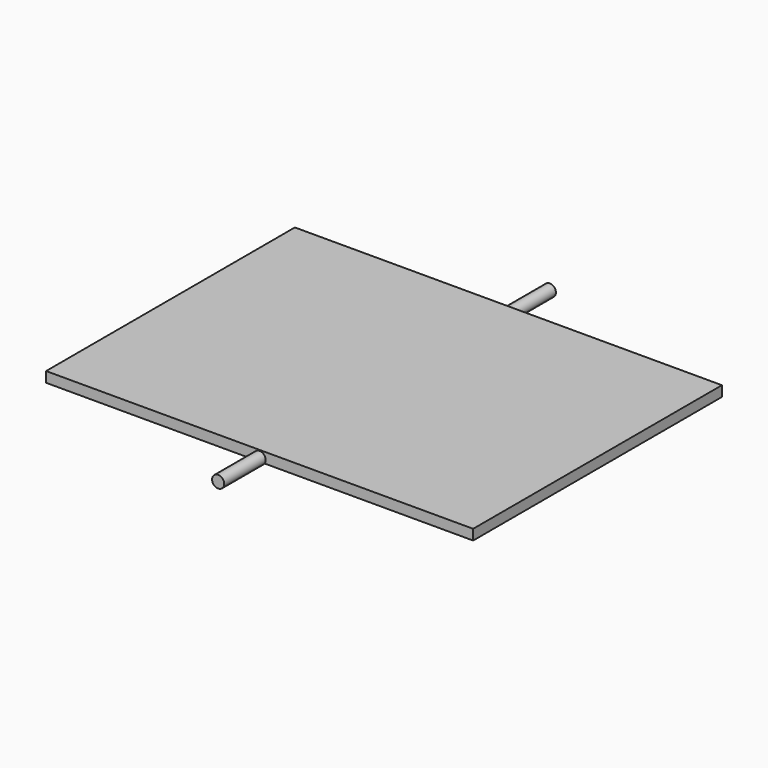
from build123d import *

# Parameters (mm, degrees)
F0_R          = 8.89
F1_DEPTH      = 304.8
F1_DEPTH_BACK = 304.8
F2_W          = 627.888
F2_H          = 457.2
F3_DEPTH      = 10.16
F3_DEPTH_BACK = 5.08


with BuildPart() as f1:
    # F0 (on Front) → F1 (new body, two sides)
    with BuildSketch(Plane.XZ) as f1_sk:
        Circle(F0_R)
    extrude(amount=F1_DEPTH)
    extrude(f1_sk.sketch, amount=-F1_DEPTH_BACK)

    # F2 (on Top) → F3 (join, two sides)
    with BuildSketch(Plane.XY) as f3_sk:
        Rectangle(F2_W, F2_H)
    extrude(amount=F3_DEPTH)
    extrude(f3_sk.sketch, amount=-F3_DEPTH_BACK)


solid = f1.part
